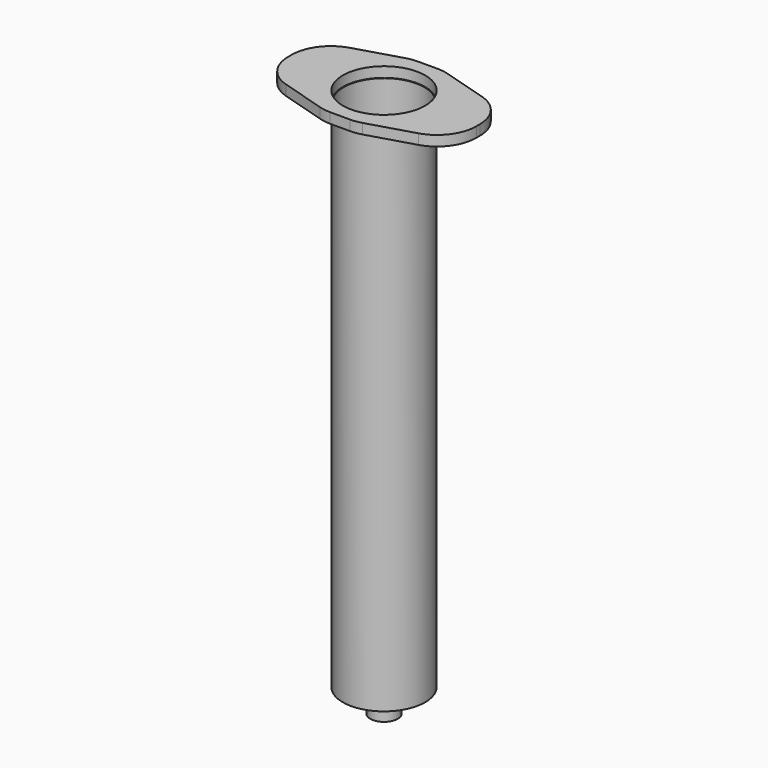
from build123d import *

# Parameters (mm, degrees)
F0_R       = 5.25
F0_R_2     = 5.15
F1_DEPTH   = 65.7
F2_W       = 24
F2_H       = 14
F2_R       = 5.25
F3_DEPTH   = 1.3
F4_SIZE2   = 10
F4_SIZE    = 3
F4_2_SIZE2 = 10
F4_2_SIZE  = 3
F5_R       = 5
F6_R       = 5.15
F6_R_2     = 1.75
F7_DEPTH   = 0.1
F8_R       = 1.75
F8_R_2     = 1.25
F9_DEPTH   = 3


with BuildPart() as f1:
    # F0 (on Top) → F1 (new body)
    with BuildSketch(Plane.XY):
        Circle(F0_R)
        Circle(F0_R_2, mode=Mode.SUBTRACT)
    extrude(amount=F1_DEPTH)


with BuildPart() as f3:
    # F2 (on face) → F3 (new body)
    with BuildSketch(Plane.XY.offset(65.7)):
        Rectangle(F2_W, F2_H)
        Circle(F2_R, mode=Mode.SUBTRACT)
    extrude(amount=F3_DEPTH)

    # F4
    f4_edges = [f3.edges().sort_by_distance(p)[0] for p in [
        (-12, 7, 66.35),
        (-12, -7, 66.35),
    ]]
    f4_side = f3.faces().sort_by_distance((-12, 0, 66.35))[0]
    chamfer(f4_edges, length=F4_SIZE, length2=F4_SIZE2, reference=f4_side)

    # F4#2
    f4_2_edges = [f3.edges().sort_by_distance(p)[0] for p in [
        (12, 7, 66.35),
        (12, -7, 66.35),
    ]]
    f4_2_side = f3.faces().sort_by_distance((12, 0, 66.35))[0]
    chamfer(f4_2_edges, length=F4_2_SIZE, length2=F4_2_SIZE2, reference=f4_2_side)

    # F5
    f5_edges = [f3.edges().sort_by_distance(p)[0] for p in [
        (-12, -4, 66.35),
        (-2, -7, 66.35),
        (2, -7, 66.35),
        (12, -4, 66.35),
        (12, 4, 66.35),
        (2, 7, 66.35),
        (-2, 7, 66.35),
        (-12, 4, 66.35),
    ]]
    fillet(f5_edges, radius=F5_R)


with BuildPart() as f7:
    # F6 (on face) → F7 (new body)
    with BuildSketch(Plane(origin=(0, 0, 0), x_dir=(1, 0, 0), z_dir=(0, 0, -1))):
        Circle(F6_R)
        Circle(F6_R_2, mode=Mode.SUBTRACT)
    extrude(amount=-F7_DEPTH)


with BuildPart() as f9:
    # F8 (on face) → F9 (new body)
    with BuildSketch(Plane(origin=(0, 0, 0), x_dir=(1, 0, 0), z_dir=(0, 0, -1))):
        Circle(F8_R)
        Circle(F8_R_2, mode=Mode.SUBTRACT)
    extrude(amount=F9_DEPTH)


solid = Compound([f1.part, f3.part, f7.part, f9.part])
